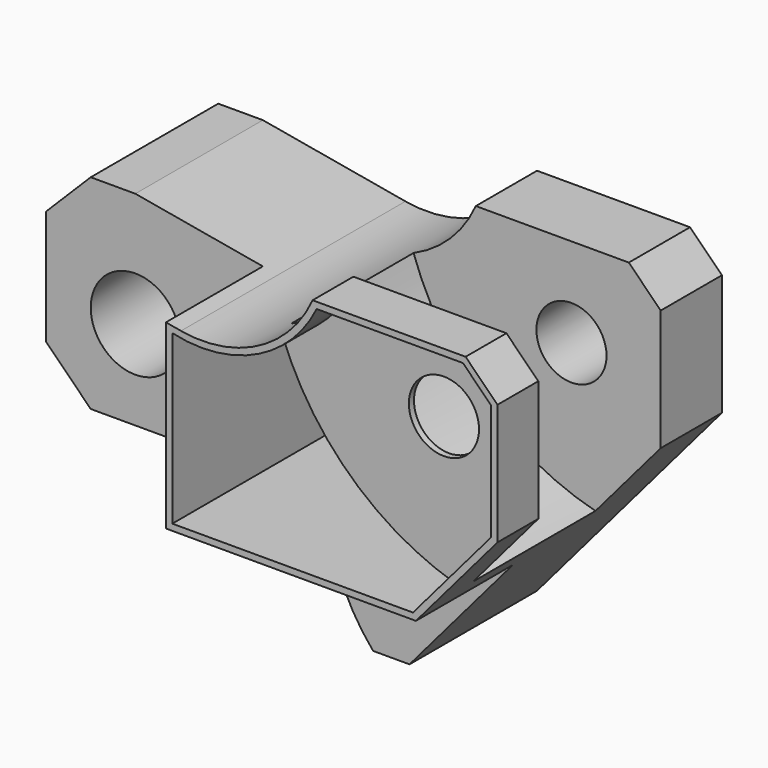
from build123d import *

# Parameters (mm, degrees)
F0_R      = 7
F0_R_2    = 5.5
F1_DEPTH  = 44
F2_W      = 20
F2_H      = 19
F2_W_2    = 7
F3_DEPTH  = 51.001
F6_DEPTH  = 24
F8_DEPTH  = 19
F9_R      = 5.5
F10_DEPTH = 7
F11_DEPTH = 32


with BuildPart() as f1:
    # F0 (on Front) → F1 (new body)
    with BuildSketch(Plane.XZ):
        with BuildLine():
            Line((-5, 24), (-29, 24))
            ThreePointArc((-29, 24), (-37.4389012943, 14.9820441422), (-49.6386191642, 13.0570852328))
            Line((-49.6386191642, 13.0570852328), (-72, 17))
            Line((-72, 17), (-79, 17))
            Line((-79, 17), (-86, 10))
            Line((-86, 10), (-86, -8))
            Line((-86, -8), (-79, -15))
            Line((-79, -15), (-46.4244610887, -15))
            ThreePointArc((-46.4244610887, -15), (-43.1592253076, -16.2134137678), (-41.4788223472, -19.2647058824))
            ThreePointArc((-41.4788223472, -19.2647058824), (-39.1419921441, -27.115672061), (-34.7030199473, -34))
            Line((-34.7030199473, -34), (-29, -34))
            Line((-29, -34), (0, 0))
            Line((0, 0), (0, 19))
            Line((0, 19), (-5, 24))
        make_face()
        with Locations((-72, -1)):
            Circle(F0_R, mode=Mode.SUBTRACT)
        with Locations((-14, 10)):
            Circle(F0_R_2, mode=Mode.SUBTRACT)
    extrude(amount=F1_DEPTH)

    # F2 (on face) → F3 (cut, through all)
    with BuildSketch(Plane.XY.offset(17)):
        with Locations((-62, -34.5)):
            Rectangle(F2_W, F2_H)
        with Locations((-75.5, -34.5)):
            Rectangle(F2_W_2, F2_H)
        with Locations((-82.5, -34.5)):
            Rectangle(F2_W_2, F2_H)
    extrude(amount=-F3_DEPTH, mode=Mode.SUBTRACT)

    # F5 (on offset) → F6 (cut)
    with BuildSketch(Plane.XZ.offset(12)):
        with BuildLine():
            Line((-10.2352941176, -12), (0, 0))
            Line((0, 0), (0, 19))
            Line((0, 19), (-5, 24))
            Line((-5, 24), (-29, 24))
            ThreePointArc((-29, 24), (-32.9787556567, 18.2593336205), (-38.763063451, 14.3442946173))
            ThreePointArc((-38.763063451, 14.3442946173), (-27.8157370175, -2.4192947713), (-10.2352941176, -12))
        make_face()
    extrude(amount=F6_DEPTH, mode=Mode.SUBTRACT)

    # F7 (on face) → F8 (cut)
    with BuildSketch(Plane.XZ.offset(44)):
        with BuildLine():
            Line((-46.4244610887, -15), (-52, -15))
            Line((-52, -15), (-52, -51.1183999479))
            Line((-52, -51.1183999479), (24.7316434979, -51.1183999479))
            Line((24.7316434979, -51.1183999479), (24.7316434979, -15))
            Line((24.7316434979, -15), (-12.7941176471, -15))
            Line((-12.7941176471, -15), (-29, -34))
            Line((-29, -34), (-34.7030199473, -34))
            ThreePointArc((-34.7030199473, -34), (-39.1419921441, -27.115672061), (-41.4788223472, -19.2647058824))
            ThreePointArc((-41.4788223472, -19.2647058824), (-43.1592253076, -16.2134137678), (-46.4244610887, -15))
        make_face()
        with BuildLine():
            Line((-12.7941176471, -15), (-46.4244610887, -15))
            ThreePointArc((-46.4244610887, -15), (-43.1592253076, -16.2134137678), (-41.4788223472, -19.2647058824))
            ThreePointArc((-41.4788223472, -19.2647058824), (-39.1419921441, -27.115672061), (-34.7030199473, -34))
            Line((-34.7030199473, -34), (-29, -34))
            Line((-29, -34), (-12.7941176471, -15))
        make_face()
    extrude(amount=-F8_DEPTH, mode=Mode.SUBTRACT)

    # F9 (on face) → F10 (cut)
    with BuildSketch(Plane.XZ.offset(44)):
        with BuildLine():
            ThreePointArc((-28.3639153145, 23), (-32.8995598011, 16.9571773079), (-39.3533170567, 13.0282087051))
            ThreePointArc((-39.3533170567, 13.0282087051), (-28.689818317, -2.9721273618), (-12.0131522532, -12.5434265746))
            Line((-12.0131522532, -12.5434265746), (-1, 0.3685450325))
            Line((-1, 0.3685450325), (-1, 18.5857864376))
            Line((-1, 18.5857864376), (-5.4142135624, 23))
            Line((-5.4142135624, 23), (-28.3639153145, 23))
        make_face()
        with Locations((-14, 10)):
            Circle(F9_R, mode=Mode.SUBTRACT)
    extrude(amount=-F10_DEPTH, mode=Mode.SUBTRACT)

    # F9 (on face) → F11 (cut, through all)
    with BuildSketch(Plane.XZ.offset(44)):
        with BuildLine():
            Line((-51, 12.3190646627), (-51, -14))
            Line((-51, -14), (-13.2555237042, -14))
            Line((-13.2555237042, -14), (-12.0131522532, -12.5434265746))
            ThreePointArc((-12.0131522532, -12.5434265746), (-28.689818317, -2.9721273618), (-39.3533170567, 13.0282087051))
            ThreePointArc((-39.3533170567, 13.0282087051), (-45.1237934763, 11.805403344), (-51, 12.3190646627))
        make_face()
    extrude(amount=-F11_DEPTH, mode=Mode.SUBTRACT)


solid = f1.part
